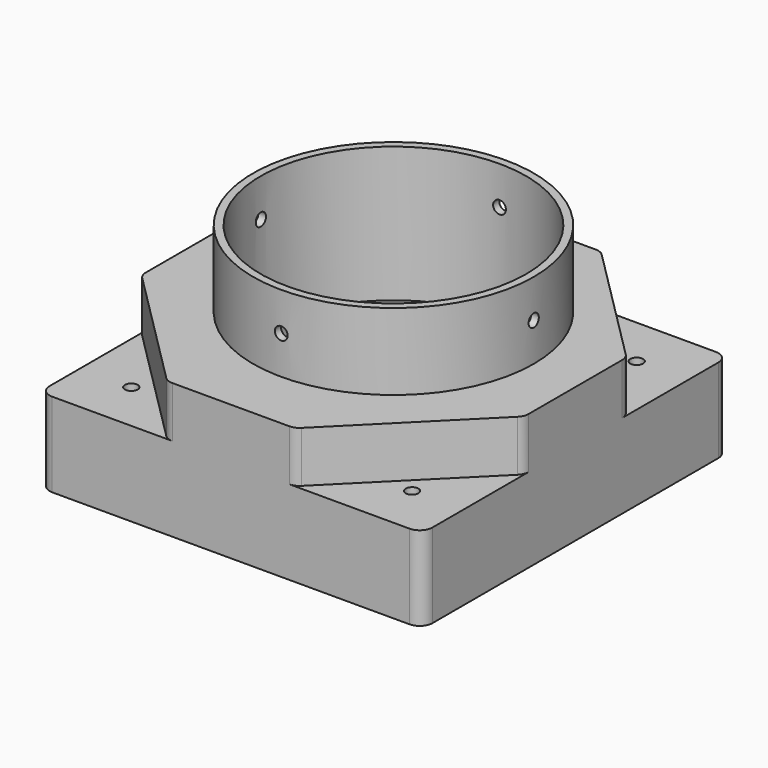
from build123d import *

# Parameters (mm, degrees)
F0_W      = 150
F0_H      = 150
F1_DEPTH  = 33
F3_DEPTH  = 20
F4_R      = 5
F5_R      = 55
F6_DEPTH  = 30
F8_DEPTH  = 30
F9_R      = 52
F10_DEPTH = 83.001
F11_R     = 2.5
F12_DEPTH = 33.001
F13_R     = 2.5
F14_DEPTH = 33.001
F15_R     = 2.5
F16_DEPTH = 33.001
F17_R     = 2.5
F18_DEPTH = 33.001
F19_R     = 5
F20_R     = 2.5
F21_DEPTH = 75
F22_R     = 2.5
F23_DEPTH = 75


with BuildPart() as f1:
    # F0 (on Top) → F1 (new body)
    with BuildSketch(Plane.XY):
        with Locations((-0.500000082, -4.0026037022)):
            Rectangle(F0_W, F0_H)
    extrude(amount=F1_DEPTH)

    # F2 (on face) → F3 (join)
    with BuildSketch(Plane.XY.offset(33)):
        Polygon((24.499999918, 70.9973962978), (-25.500000082, 70.9973962978), (-75.500000082, 20.9973962978), (-75.500000082, -29.0026037022), (-25.500000082, -79.0026037022), (24.499999918, -79.0026037022), (74.499999918, -29.0026037022), (74.499999918, 20.9973962978), align=None)
    extrude(amount=F3_DEPTH)

    # F4
    f4_edges = [f1.edges().sort_by_distance(p)[0] for p in [
        (-75.5, 70.997396, 16.5),
        (-75.5, -79.002604, 16.5),
        (74.5, 70.997396, 16.5),
        (74.5, -79.002604, 16.5),
    ]]
    fillet(f4_edges, radius=F4_R)

    # F5 (on face) → F6 (join)
    with BuildSketch(Plane.XY.offset(53)):
        Circle(F5_R)
    extrude(amount=F6_DEPTH)

    # F7 (on face) → F8 (cut)
    with BuildSketch(Plane(origin=(0, 0, 0), x_dir=(1, 0, 0), z_dir=(0, 0, -1))):
        with BuildLine():
            Line((66.999999918, 76.5026037022), (-68.000000082, 76.5026037022))
            ThreePointArc((-68.000000082, 76.5026037022), (-71.5355339879, 75.0381376082), (-73.000000082, 71.5026037022))
            Line((-73.000000082, 71.5026037022), (-73.000000082, -63.4973962978))
            ThreePointArc((-73.000000082, -63.4973962978), (-71.5355339879, -67.0329302037), (-68.000000082, -68.4973962978))
            Line((-68.000000082, -68.4973962978), (66.999999918, -68.4973962978))
            ThreePointArc((66.999999918, -68.4973962978), (70.535533824, -67.0329302037), (71.999999918, -63.4973962978))
            Line((71.999999918, -63.4973962978), (71.999999918, 71.5026037022))
            ThreePointArc((71.999999918, 71.5026037022), (70.535533824, 75.0381376082), (66.999999918, 76.5026037022))
        make_face()
    extrude(amount=-F8_DEPTH, mode=Mode.SUBTRACT)

    # F9 (on face) → F10 (cut, through all)
    with BuildSketch(Plane.XY.offset(83)):
        Circle(F9_R)
    extrude(amount=-F10_DEPTH, mode=Mode.SUBTRACT)

    # F11 (on face) → F12 (cut, through all)
    with BuildSketch(Plane.XY.offset(33)):
        with Locations((-55.500000082, 50.9973962978)):
            Circle(F11_R)
    extrude(amount=-F12_DEPTH, mode=Mode.SUBTRACT)

    # F13 (on face) → F14 (cut, through all)
    with BuildSketch(Plane.XY.offset(33)):
        with Locations((54.499999918, 50.9973962978)):
            Circle(F13_R)
    extrude(amount=-F14_DEPTH, mode=Mode.SUBTRACT)

    # F15 (on face) → F16 (cut, through all)
    with BuildSketch(Plane.XY.offset(33)):
        with Locations((-55.500000082, -59.0026037022)):
            Circle(F15_R)
    extrude(amount=-F16_DEPTH, mode=Mode.SUBTRACT)

    # F17 (on face) → F18 (cut, through all)
    with BuildSketch(Plane.XY.offset(33)):
        with Locations((54.499999918, -59.0026037022)):
            Circle(F17_R)
    extrude(amount=-F18_DEPTH, mode=Mode.SUBTRACT)

    # F19
    f19_edges = [f1.edges().sort_by_distance(p)[0] for p in [
        (-75.5, -29.002604, 43),
        (-75.5, 20.997396, 43),
        (-25.5, -79.002604, 43),
        (24.5, -79.002604, 43),
        (74.5, -29.002604, 43),
        (74.5, 20.997396, 43),
        (24.5, 70.997396, 43),
        (-25.5, 70.997396, 43),
    ]]
    fillet(f19_edges, radius=F19_R)

    # F20 (on Right) → F21 (cut, symmetric)
    with BuildSketch(Plane.YZ):
        with Locations((0, 68)):
            Circle(F20_R)
    extrude(amount=F21_DEPTH, both=True, mode=Mode.SUBTRACT)

    # F22 (on Front) → F23 (cut, symmetric)
    with BuildSketch(Plane.XZ):
        with Locations((0, 68)):
            Circle(F22_R)
    extrude(amount=F23_DEPTH, both=True, mode=Mode.SUBTRACT)


solid = f1.part
